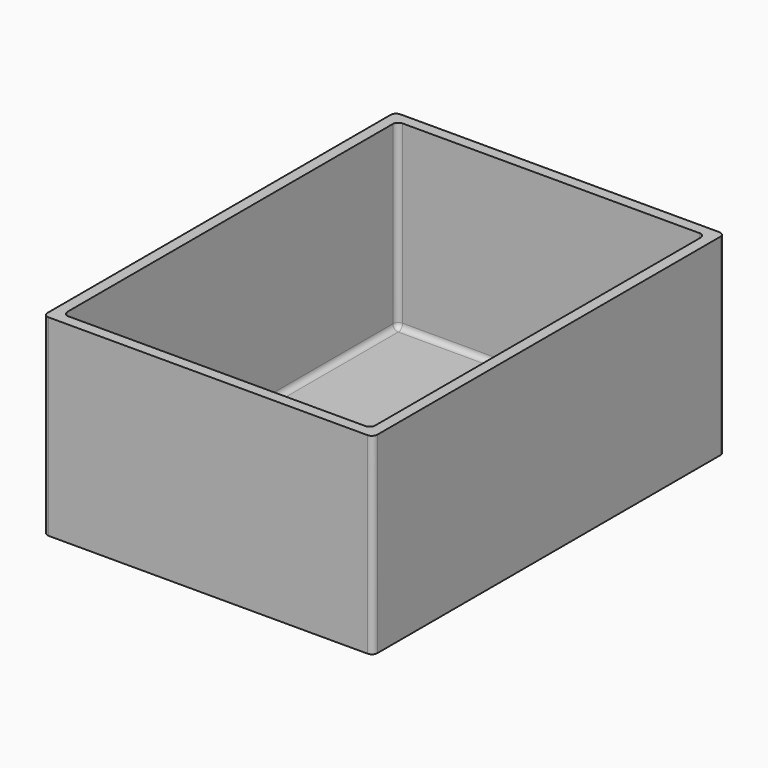
from build123d import *

# Parameters (mm, degrees)
F0_W     = 76.2
F0_H     = 101.6
F1_DEPTH = 44.45
F2_T     = -2.54
F3_R     = 1.27
F4_R     = 1.27


with BuildPart() as f1:
    # F0 (on Top) → F1 (new body)
    with BuildSketch(Plane.XY):
        with Locations((38.1, 50.8)):
            Rectangle(F0_W, F0_H)
    extrude(amount=F1_DEPTH)

    # F2
    f2_openings = [f1.faces().sort_by_distance(p)[0] for p in [
        (38.1, 50.8, 44.45),
    ]]
    offset(amount=F2_T, openings=f2_openings)

    # F3
    f3_edges = [f1.edges().sort_by_distance(p)[0] for p in [
        (2.54, 2.54, 23.495),
        (2.54, 99.06, 23.495),
        (73.66, 2.54, 23.495),
        (73.66, 99.06, 23.495),
        (0, 0, 22.225),
        (0, 101.6, 22.225),
        (76.2, 0, 22.225),
        (76.2, 101.6, 22.225),
    ]]
    fillet(f3_edges, radius=F3_R)

    # F4
    f4_edges = [f1.edges().sort_by_distance(p)[0] for p in [
        (2.54, 50.8, 2.54),
        (2.911974, 98.688026, 2.54),
        (2.911974, 2.911974, 2.54),
        (38.1, 99.06, 2.54),
        (38.1, 2.54, 2.54),
        (73.288026, 98.688026, 2.54),
        (73.288026, 2.911974, 2.54),
        (73.66, 50.8, 2.54),
    ]]
    fillet(f4_edges, radius=F4_R)


solid = f1.part
